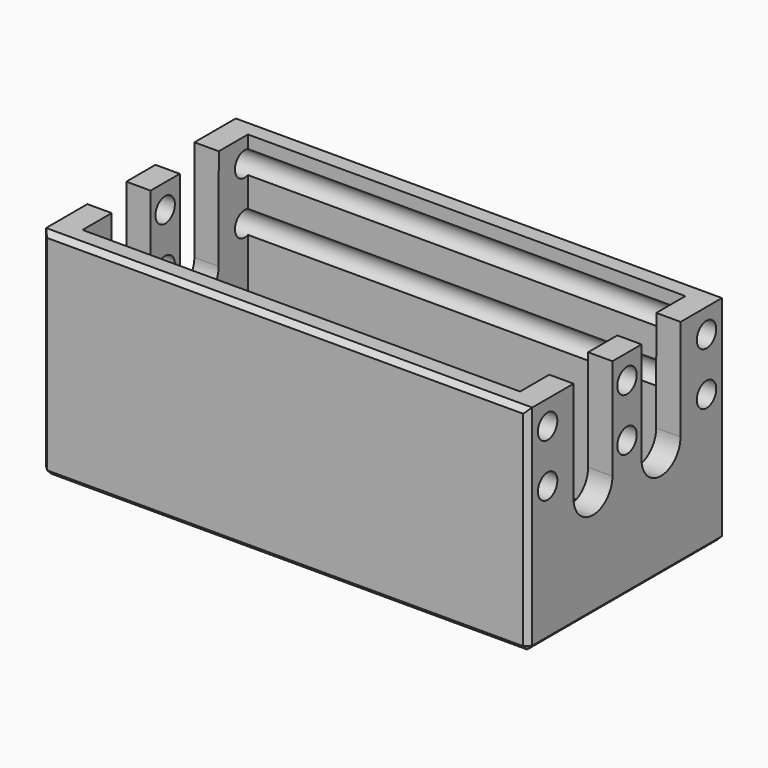
from build123d import *

# Parameters (mm, degrees)
F0_R     = 3
F1_DEPTH = 120
F2_W     = 108
F2_H     = 51.033765
F3_DEPTH = 80
F4_SIZE  = 1.25


with BuildPart() as f1:
    # F0 (on Right) → F1 (new body)
    with BuildSketch(Plane.YZ):
        with BuildLine():
            Line((-8.049497, 27.557599), (-22.049497, 27.557599))
            Line((-22.049497, 27.557599), (-22.049497, -25.442401))
            Line((-22.049497, -25.442401), (38.984268, -25.442401))
            Line((38.984268, -25.442401), (38.984268, 27.557599))
            Line((38.984268, 27.557599), (24.984268, 27.557599))
            Line((24.984268, 27.557599), (24.950503, 2.54948))
            ThreePointArc((24.950503, 2.54948), (18.650329, -3.448858), (12.950503, 3.122613))
            Line((12.950503, 3.122613), (12.950503, 27.557599))
            Line((12.950503, 27.557599), (3.950503, 27.557599))
            Line((3.950503, 27.557599), (3.950503, 2.557599))
            ThreePointArc((3.950503, 2.557599), (-2.049497, -3.442401), (-8.049497, 2.557599))
            Line((-8.049497, 2.557599), (-8.049497, 27.557599))
        make_face()
        with Locations((-16.049497, 8.557599)):
            Circle(F0_R, mode=Mode.SUBTRACT)
        with Locations((8.450268, 8.557599)):
            Circle(F0_R, mode=Mode.SUBTRACT)
        with Locations((-16.049497, 21.557599)):
            Circle(F0_R, mode=Mode.SUBTRACT)
        with Locations((8.450268, 21.557599)):
            Circle(F0_R, mode=Mode.SUBTRACT)
        with Locations((32.984268, 8.557599)):
            Circle(F0_R, mode=Mode.SUBTRACT)
        with Locations((32.984268, 21.557599)):
            Circle(F0_R, mode=Mode.SUBTRACT)
    extrude(amount=F1_DEPTH)

    # F2 (on face) → F3 (cut)
    with BuildSketch(Plane.XY.offset(27.557599)):
        with Locations((60, 8.467386)):
            Rectangle(F2_W, F2_H)
    extrude(amount=-F3_DEPTH, mode=Mode.SUBTRACT)

    # F4
    f4_edges = [f1.edges().sort_by_distance(p)[0] for p in [
        (0, 38.984268, 1.057599),
        (0, -22.049497, 1.057599),
        (60, -22.049497, 27.557599),
        (60, -22.049497, -25.442401),
        (120, -22.049497, 1.057599),
        (60, 38.984268, -25.442401),
        (60, 38.984268, 27.557599),
        (120, 38.984268, 1.057599),
        (120, 8.467386, -25.442401),
        (0, 8.467386, -25.442401),
    ]]
    chamfer(f4_edges, length=F4_SIZE)


solid = f1.part
